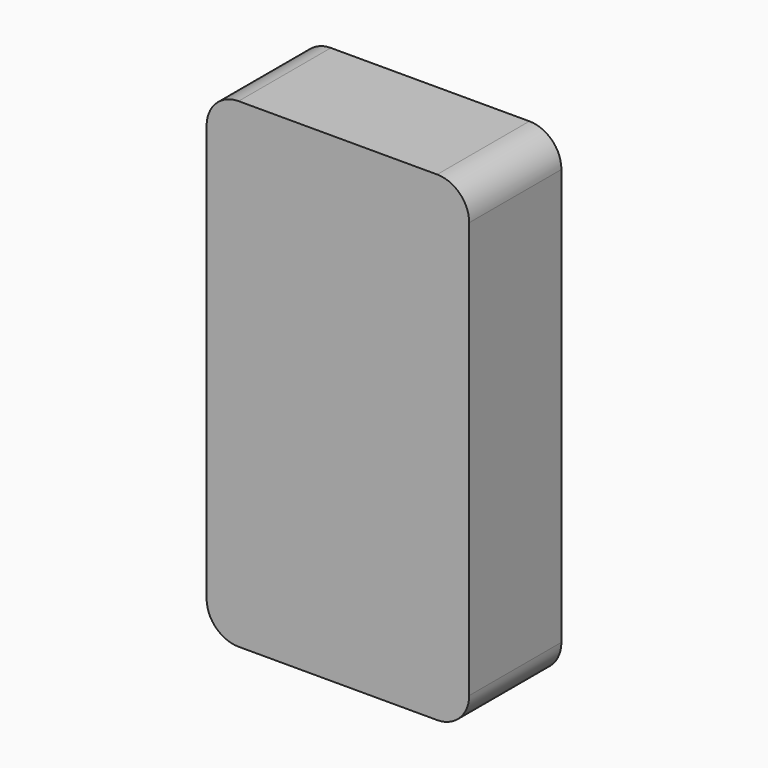
from build123d import *

# Parameters (mm, degrees)
CYLINDER075_R               = 2.8
CYLINDER075_DEPTH           = 10
CYLINDER074_R               = 4.99
CYLINDER074_DEPTH           = 22
CYLINDER074_ROLL_ANGLE      = 90
CYLINDER074_PITCH_ANGLE     = -60
CYLINDER074_PLACEMENT_ANGLE = 180
CYLINDER077_R               = 2.8
CYLINDER077_DEPTH           = 10
CYLINDER076_R               = 4.99
CYLINDER076_DEPTH           = 22
CYLINDER076_ROLL_ANGLE      = 90
CYLINDER076_PITCH_ANGLE     = -60
CYLINDER076_PLACEMENT_ANGLE = 180
CYLINDER079_R               = 2.8
CYLINDER079_DEPTH           = 10
CYLINDER078_R               = 4.99
CYLINDER078_DEPTH           = 22
CYLINDER078_ROLL_ANGLE      = 90
CYLINDER078_PITCH_ANGLE     = -60
CYLINDER078_PLACEMENT_ANGLE = 180
CYLINDER054_R               = 1.6
CYLINDER054_DEPTH           = 12
CYLINDER055_R               = 1.6
CYLINDER055_DEPTH           = 12
CYLINDER056_R               = 1.6
CYLINDER056_DEPTH           = 12
CYLINDER057_R               = 1.6
CYLINDER057_DEPTH           = 12
CYLINDER058_R               = 1.6
CYLINDER058_DEPTH           = 12
CYLINDER059_R               = 1.6
CYLINDER059_DEPTH           = 12
CYLINDER060_R               = 1.6
CYLINDER060_DEPTH           = 12
CYLINDER061_R               = 1.6
CYLINDER061_DEPTH           = 12
CYLINDER062_R               = 3.5
CYLINDER062_DEPTH           = 12
CYLINDER063_R               = 3.5
CYLINDER063_DEPTH           = 12
CYLINDER064_R               = 3.5
CYLINDER064_DEPTH           = 12
CYLINDER065_R               = 3.5
CYLINDER065_DEPTH           = 12
CYLINDER066_R               = 3.5
CYLINDER066_DEPTH           = 12
CYLINDER067_R               = 3.5
CYLINDER067_DEPTH           = 12
CYLINDER068_R               = 3.5
CYLINDER068_DEPTH           = 12
CYLINDER051_R               = 1.57
CYLINDER051_DEPTH           = 6
CYLINDER050_R               = 5.3
CYLINDER050_DEPTH           = 6
CYLINDER052_W               = 5.3
CYLINDER052_H               = 6
CYLINDER052_ANGLE           = 270
CYLINDER053_W               = 5.3
CYLINDER053_H               = 6
CYLINDER053_ANGLE           = 270
CYLINDER045_W               = 10
CYLINDER045_H               = 34
CYLINDER045_ANGLE           = 90
BOX035_W                    = 10
BOX035_H                    = 34
BOX035_DEPTH                = 10
CUT031_PLACEMENT_ANGLE      = 180
CYLINDER046_W               = 10
CYLINDER046_H               = 34
CYLINDER046_ANGLE           = 90
BOX036_W                    = 10
BOX036_H                    = 34
BOX036_DEPTH                = 10
CUT032_PLACEMENT_ANGLE      = 180
CYLINDER047_W               = 10
CYLINDER047_H               = 34
CYLINDER047_ANGLE           = 90
BOX037_W                    = 10
BOX037_H                    = 34
BOX037_DEPTH                = 10
CUT033_PITCH_ANGLE          = -90
CUT033_PLACEMENT_ANGLE      = -180
CYLINDER044_W               = 10
CYLINDER044_H               = 34
CYLINDER044_ANGLE           = 90
BOX033_W                    = 10
BOX033_H                    = 34
BOX033_DEPTH                = 10
CUT030_PITCH_ANGLE          = 90
CUT030_PLACEMENT_ANGLE      = -180
BOX034_W                    = 78
BOX034_H                    = 34
BOX034_DEPTH                = 146
CYLINDER041_W               = 10
CYLINDER041_H               = 36
CYLINDER041_ANGLE           = 90
BOX030_W                    = 10
BOX030_H                    = 36
BOX030_DEPTH                = 10
CUT026_PLACEMENT_ANGLE      = 180
CYLINDER042_W               = 10
CYLINDER042_H               = 36
CYLINDER042_ANGLE           = 90
BOX031_W                    = 10
BOX031_H                    = 36
BOX031_DEPTH                = 10
CUT027_PLACEMENT_ANGLE      = 180
CYLINDER043_W               = 10
CYLINDER043_H               = 36
CYLINDER043_ANGLE           = 90
BOX032_W                    = 10
BOX032_H                    = 36
BOX032_DEPTH                = 10
CUT028_PITCH_ANGLE          = -90
CUT028_PLACEMENT_ANGLE      = -180
CYLINDER040_W               = 10
CYLINDER040_H               = 36
CYLINDER040_ANGLE           = 90
BOX028_W                    = 10
BOX028_H                    = 36
BOX028_DEPTH                = 10
CUT025_PITCH_ANGLE          = 90
CUT025_PLACEMENT_ANGLE      = -180
BOX029_W                    = 82
BOX029_H                    = 36
BOX029_DEPTH                = 150
CUT035_PLACEMENT_ANGLE      = 180
CYLINDER048_R               = 1.57
CYLINDER048_DEPTH           = 6
CYLINDER049_R               = 5.3
CYLINDER049_DEPTH           = 6
CYLINDER069_R               = 3.5
CYLINDER069_DEPTH           = 12
CYLINDER073_R               = 2.8
CYLINDER073_DEPTH           = 10
CYLINDER072_R               = 4.99
CYLINDER072_DEPTH           = 22
CYLINDER072_ROLL_ANGLE      = 90
CYLINDER072_PITCH_ANGLE     = -60
CYLINDER072_PLACEMENT_ANGLE = -180


with BuildPart() as m4heatsetcut001:
    # Cylinder075 → Cylinder075 (new body)
    with BuildSketch(Plane(origin=(4.5, -32, 141.5), x_dir=(1, 0, 0), z_dir=(0, 1, 0))):
        Circle(CYLINDER075_R)
    extrude(amount=CYLINDER075_DEPTH)


with BuildPart() as m4heatsetholes001:
    # Cylinder074 → Cylinder074 (new body)
    with BuildSketch(Plane.XY):
        Circle(CYLINDER074_R)
    extrude(amount=CYLINDER074_DEPTH)


with BuildPart() as m4heatsetholes001_1:
    # Cylinder074 roll: moved
    add(m4heatsetholes001.part.rotate(Axis((0, 0, 0), (1, 0, 0)), CYLINDER074_ROLL_ANGLE))


with BuildPart() as m4heatsetholes001_2:
    # Cylinder074 pitch: moved
    add(m4heatsetholes001_1.part.rotate(Axis((0, 0, 0), (0, 1, 0)), CYLINDER074_PITCH_ANGLE))


with BuildPart() as m4heatsetholes001_3:
    # Cylinder074 placement: moved
    add(m4heatsetholes001_2.part.moved(Location((4.5, -44, 141.5))).rotate(Axis((4.5, -44, 141.5), (0, 0, 1)), CYLINDER074_PLACEMENT_ANGLE))

    # Cut040: cut m4HeatSetCut001
    add(m4heatsetcut001.part, mode=Mode.SUBTRACT)


with BuildPart() as m4heatsetholes001_4:
    # Cut040 placement: moved
    add(m4heatsetholes001_3.part.moved(Location((68, 0, 0))))


with BuildPart() as m4heatsetcut002:
    # Cylinder077 → Cylinder077 (new body)
    with BuildSketch(Plane(origin=(4.5, -32, 141.5), x_dir=(1, 0, 0), z_dir=(0, 1, 0))):
        Circle(CYLINDER077_R)
    extrude(amount=CYLINDER077_DEPTH)


with BuildPart() as m4heatsetholes002:
    # Cylinder076 → Cylinder076 (new body)
    with BuildSketch(Plane.XY):
        Circle(CYLINDER076_R)
    extrude(amount=CYLINDER076_DEPTH)


with BuildPart() as m4heatsetholes002_1:
    # Cylinder076 roll: moved
    add(m4heatsetholes002.part.rotate(Axis((0, 0, 0), (1, 0, 0)), CYLINDER076_ROLL_ANGLE))


with BuildPart() as m4heatsetholes002_2:
    # Cylinder076 pitch: moved
    add(m4heatsetholes002_1.part.rotate(Axis((0, 0, 0), (0, 1, 0)), CYLINDER076_PITCH_ANGLE))


with BuildPart() as m4heatsetholes002_3:
    # Cylinder076 placement: moved
    add(m4heatsetholes002_2.part.moved(Location((4.5, -44, 141.5))).rotate(Axis((4.5, -44, 141.5), (0, 0, 1)), CYLINDER076_PLACEMENT_ANGLE))

    # Cut041: cut m4HeatSetCut002
    add(m4heatsetcut002.part, mode=Mode.SUBTRACT)


with BuildPart() as m4heatsetholes002_4:
    # Cut041 placement: moved
    add(m4heatsetholes002_3.part.moved(Location((0, 0, -136))))


with BuildPart() as m4heatsetcut003:
    # Cylinder079 → Cylinder079 (new body)
    with BuildSketch(Plane(origin=(4.5, -32, 141.5), x_dir=(1, 0, 0), z_dir=(0, 1, 0))):
        Circle(CYLINDER079_R)
    extrude(amount=CYLINDER079_DEPTH)


with BuildPart() as m4heatsetholes003:
    # Cylinder078 → Cylinder078 (new body)
    with BuildSketch(Plane.XY):
        Circle(CYLINDER078_R)
    extrude(amount=CYLINDER078_DEPTH)


with BuildPart() as m4heatsetholes003_1:
    # Cylinder078 roll: moved
    add(m4heatsetholes003.part.rotate(Axis((0, 0, 0), (1, 0, 0)), CYLINDER078_ROLL_ANGLE))


with BuildPart() as m4heatsetholes003_2:
    # Cylinder078 pitch: moved
    add(m4heatsetholes003_1.part.rotate(Axis((0, 0, 0), (0, 1, 0)), CYLINDER078_PITCH_ANGLE))


with BuildPart() as m4heatsetholes003_3:
    # Cylinder078 placement: moved
    add(m4heatsetholes003_2.part.moved(Location((4.5, -44, 141.5))).rotate(Axis((4.5, -44, 141.5), (0, 0, 1)), CYLINDER078_PLACEMENT_ANGLE))

    # Cut042: cut m4HeatSetCut003
    add(m4heatsetcut003.part, mode=Mode.SUBTRACT)


with BuildPart() as m4heatsetholes003_4:
    # Cut042 placement: moved
    add(m4heatsetholes003_3.part.moved(Location((68, 0, -137))))


with BuildPart() as m2heatset001:
    # Cylinder054 → Cylinder054 (new body)
    with BuildSketch(Plane(origin=(8, -44, 67.1), x_dir=(1, 0, 0), z_dir=(0, 1, 0))):
        Circle(CYLINDER054_R)
    extrude(amount=CYLINDER054_DEPTH)


with BuildPart() as m2heatset002:
    # Cylinder055 → Cylinder055 (new body)
    with BuildSketch(Plane(origin=(28, -44, 67.1), x_dir=(1, 0, 0), z_dir=(0, 1, 0))):
        Circle(CYLINDER055_R)
    extrude(amount=CYLINDER055_DEPTH)


with BuildPart() as m2heatset003:
    # Cylinder056 → Cylinder056 (new body)
    with BuildSketch(Plane(origin=(68, -44, 67.1), x_dir=(1, 0, 0), z_dir=(0, 1, 0))):
        Circle(CYLINDER056_R)
    extrude(amount=CYLINDER056_DEPTH)


with BuildPart() as m2heatset004:
    # Cylinder057 → Cylinder057 (new body)
    with BuildSketch(Plane(origin=(18.2, -44, 97), x_dir=(1, 0, 0), z_dir=(0, 1, 0))):
        Circle(CYLINDER057_R)
    extrude(amount=CYLINDER057_DEPTH)


with BuildPart() as m2heatset005:
    # Cylinder058 → Cylinder058 (new body)
    with BuildSketch(Plane(origin=(28, -44, 87), x_dir=(1, 0, 0), z_dir=(0, 1, 0))):
        Circle(CYLINDER058_R)
    extrude(amount=CYLINDER058_DEPTH)


with BuildPart() as m2heatset006:
    # Cylinder059 → Cylinder059 (new body)
    with BuildSketch(Plane(origin=(38, -44, 117), x_dir=(1, 0, 0), z_dir=(0, 1, 0))):
        Circle(CYLINDER059_R)
    extrude(amount=CYLINDER059_DEPTH)


with BuildPart() as m2heatset007:
    # Cylinder060 → Cylinder060 (new body)
    with BuildSketch(Plane(origin=(38, -44, 57), x_dir=(1, 0, 0), z_dir=(0, 1, 0))):
        Circle(CYLINDER060_R)
    extrude(amount=CYLINDER060_DEPTH)


with BuildPart() as m2heatset008:
    # Cylinder061 → Cylinder061 (new body)
    with BuildSketch(Plane(origin=(68, -44, 107), x_dir=(1, 0, 0), z_dir=(0, 1, 0))):
        Circle(CYLINDER061_R)
    extrude(amount=CYLINDER061_DEPTH)


with BuildPart() as m2heatsetcuts:
    # Cylinder062 → Cylinder062 (new body)
    with BuildSketch(Plane(origin=(8, -44, 67.1), x_dir=(1, 0, 0), z_dir=(0, 1, 0))):
        Circle(CYLINDER062_R)
    extrude(amount=CYLINDER062_DEPTH)

    # Fusion021: union m2HeatSet001, m2HeatSet002, m2HeatSet003, m2HeatSet004, m2HeatSet005, m2HeatSet006, m2HeatSet007, m2HeatSet008
    add(m2heatset001.part)
    add(m2heatset002.part)
    add(m2heatset003.part)
    add(m2heatset004.part)
    add(m2heatset005.part)
    add(m2heatset006.part)
    add(m2heatset007.part)
    add(m2heatset008.part)


with BuildPart() as obj1:
    # Cylinder063 → Cylinder063 (new body)
    with BuildSketch(Plane(origin=(28, -44, 67.1), x_dir=(1, 0, 0), z_dir=(0, 1, 0))):
        Circle(CYLINDER063_R)
    extrude(amount=CYLINDER063_DEPTH)


with BuildPart() as obj2:
    # Cylinder064 → Cylinder064 (new body)
    with BuildSketch(Plane(origin=(18.2, -44, 97), x_dir=(1, 0, 0), z_dir=(0, 1, 0))):
        Circle(CYLINDER064_R)
    extrude(amount=CYLINDER064_DEPTH)


with BuildPart() as obj3:
    # Cylinder065 → Cylinder065 (new body)
    with BuildSketch(Plane(origin=(68, -44, 67.1), x_dir=(1, 0, 0), z_dir=(0, 1, 0))):
        Circle(CYLINDER065_R)
    extrude(amount=CYLINDER065_DEPTH)


with BuildPart() as obj4:
    # Cylinder066 → Cylinder066 (new body)
    with BuildSketch(Plane(origin=(28, -44, 87), x_dir=(1, 0, 0), z_dir=(0, 1, 0))):
        Circle(CYLINDER066_R)
    extrude(amount=CYLINDER066_DEPTH)


with BuildPart() as obj5:
    # Cylinder067 → Cylinder067 (new body)
    with BuildSketch(Plane(origin=(38, -44, 57), x_dir=(1, 0, 0), z_dir=(0, 1, 0))):
        Circle(CYLINDER067_R)
    extrude(amount=CYLINDER067_DEPTH)


with BuildPart() as obj6:
    # Cylinder068 → Cylinder068 (new body)
    with BuildSketch(Plane(origin=(68, -44, 107), x_dir=(1, 0, 0), z_dir=(0, 1, 0))):
        Circle(CYLINDER068_R)
    extrude(amount=CYLINDER068_DEPTH)


with BuildPart() as cylinder051:
    # Cylinder051 → Cylinder051 (new body)
    with BuildSketch(Plane(origin=(59.6, -44, 48.15), x_dir=(1, 0, 0), z_dir=(0, 1, 0))):
        Circle(CYLINDER051_R)
    extrude(amount=CYLINDER051_DEPTH)


with BuildPart() as cut037:
    # Cylinder050 → Cylinder050 (new body)
    with BuildSketch(Plane(origin=(62.1, -44, 50.65), x_dir=(0, 0, -1), z_dir=(0, 1, 0))):
        Circle(CYLINDER050_R)
    extrude(amount=CYLINDER050_DEPTH)

    # Cut037: cut Cylinder051
    add(cylinder051.part, mode=Mode.SUBTRACT)


with BuildPart() as cylinder052:
    # Cylinder052 → Cylinder052 (revolve)
    with BuildSketch(Plane(origin=(15, -38, 7.55), x_dir=(1, 0, 0), z_dir=(0, 0, 1))):
        with Locations((2.65, 3)):
            Rectangle(CYLINDER052_W, CYLINDER052_H)
    revolve(axis=Axis((15, -38, 7.55), (0, 1, 0)), revolution_arc=CYLINDER052_ANGLE)


with BuildPart() as cylinder053:
    # Cylinder053 → Cylinder053 (revolve)
    with BuildSketch(Plane(origin=(62.1, -38, 50.65), x_dir=(-1, 0, 0), z_dir=(0, 0, -1))):
        with Locations((2.65, 3)):
            Rectangle(CYLINDER053_W, CYLINDER053_H)
    revolve(axis=Axis((62.1, -38, 50.65), (0, 1, 0)), revolution_arc=CYLINDER053_ANGLE)


with BuildPart() as cylinder045:
    # Cylinder045 → Cylinder045 (revolve)
    with BuildSketch(Plane(origin=(0, 26, 0), x_dir=(1, 0, 0), z_dir=(0, 0, -1))):
        with Locations((5, 17)):
            Rectangle(CYLINDER045_W, CYLINDER045_H)
    revolve(axis=Axis((0, 26, 0), (0, -1, 0)), revolution_arc=CYLINDER045_ANGLE)


with BuildPart() as cut031:
    # Box035 → Box035 (new body)
    with BuildSketch(Plane(origin=(0, -8, 0), x_dir=(1, 0, 0), z_dir=(0, 0, 1))):
        with Locations((5, 17)):
            Rectangle(BOX035_W, BOX035_H)
    extrude(amount=BOX035_DEPTH)

    # Cut031: cut Cylinder045
    add(cylinder045.part, mode=Mode.SUBTRACT)


with BuildPart() as cut031_1:
    # Cut031 placement: moved
    add(cut031.part.moved(Location((70, 18, 8))).rotate(Axis((70, 18, 8), (1, 0, 0)), CUT031_PLACEMENT_ANGLE))


with BuildPart() as cylinder046:
    # Cylinder046 → Cylinder046 (revolve)
    with BuildSketch(Plane(origin=(0, 26, 0), x_dir=(1, 0, 0), z_dir=(0, 0, -1))):
        with Locations((5, 17)):
            Rectangle(CYLINDER046_W, CYLINDER046_H)
    revolve(axis=Axis((0, 26, 0), (0, -1, 0)), revolution_arc=CYLINDER046_ANGLE)


with BuildPart() as cut032:
    # Box036 → Box036 (new body)
    with BuildSketch(Plane(origin=(0, -8, 0), x_dir=(1, 0, 0), z_dir=(0, 0, 1))):
        with Locations((5, 17)):
            Rectangle(BOX036_W, BOX036_H)
    extrude(amount=BOX036_DEPTH)

    # Cut032: cut Cylinder046
    add(cylinder046.part, mode=Mode.SUBTRACT)


with BuildPart() as cut032_1:
    # Cut032 placement: moved
    add(cut032.part.moved(Location((12, 18, 134))).rotate(Axis((12, 18, 134), (0, 0, 1)), CUT032_PLACEMENT_ANGLE))


with BuildPart() as cylinder047:
    # Cylinder047 → Cylinder047 (revolve)
    with BuildSketch(Plane(origin=(0, 26, 0), x_dir=(1, 0, 0), z_dir=(0, 0, -1))):
        with Locations((5, 17)):
            Rectangle(CYLINDER047_W, CYLINDER047_H)
    revolve(axis=Axis((0, 26, 0), (0, -1, 0)), revolution_arc=CYLINDER047_ANGLE)


with BuildPart() as cut033:
    # Box037 → Box037 (new body)
    with BuildSketch(Plane(origin=(0, -8, 0), x_dir=(1, 0, 0), z_dir=(0, 0, 1))):
        with Locations((5, 17)):
            Rectangle(BOX037_W, BOX037_H)
    extrude(amount=BOX037_DEPTH)

    # Cut033: cut Cylinder047
    add(cylinder047.part, mode=Mode.SUBTRACT)


with BuildPart() as cut033_1:
    # Cut033 pitch: moved
    add(cut033.part.rotate(Axis((0, 0, 0), (0, 1, 0)), CUT033_PITCH_ANGLE))


with BuildPart() as cut033_2:
    # Cut033 placement: moved
    add(cut033_1.part.moved(Location((70, 18, 135))).rotate(Axis((70, 18, 135), (0, 0, 1)), CUT033_PLACEMENT_ANGLE))


with BuildPart() as cylinder044:
    # Cylinder044 → Cylinder044 (revolve)
    with BuildSketch(Plane(origin=(0, 26, 0), x_dir=(1, 0, 0), z_dir=(0, 0, -1))):
        with Locations((5, 17)):
            Rectangle(CYLINDER044_W, CYLINDER044_H)
    revolve(axis=Axis((0, 26, 0), (0, -1, 0)), revolution_arc=CYLINDER044_ANGLE)


with BuildPart() as fusion018:
    # Box033 → Box033 (new body)
    with BuildSketch(Plane(origin=(0, -8, 0), x_dir=(1, 0, 0), z_dir=(0, 0, 1))):
        with Locations((5, 17)):
            Rectangle(BOX033_W, BOX033_H)
    extrude(amount=BOX033_DEPTH)

    # Cut030: cut Cylinder044
    add(cylinder044.part, mode=Mode.SUBTRACT)


with BuildPart() as fusion018_1:
    # Cut030 pitch: moved
    add(fusion018.part.rotate(Axis((0, 0, 0), (0, 1, 0)), CUT030_PITCH_ANGLE))


with BuildPart() as fusion018_2:
    # Cut030 placement: moved
    add(fusion018_1.part.moved(Location((12, 18, 8))).rotate(Axis((12, 18, 8), (0, 0, 1)), CUT030_PLACEMENT_ANGLE))

    # Fusion018: union Cut031, Cut032, Cut033
    add(cut031_1.part)
    add(cut032_1.part)
    add(cut033_2.part)


with BuildPart() as obj7:
    # Box034 → Box034 (new body)
    with BuildSketch(Plane(origin=(80, 26, -2), x_dir=(-1, 0, 0), z_dir=(0, 0, 1))):
        with Locations((39, 17)):
            Rectangle(BOX034_W, BOX034_H)
    extrude(amount=BOX034_DEPTH)

    # Cut034: cut Fusion018
    add(fusion018_2.part, mode=Mode.SUBTRACT)


with BuildPart() as obj7_1:
    # Cut034 placement: moved
    add(obj7.part.moved(Location((-2, -2, 2))))


with BuildPart() as cylinder041:
    # Cylinder041 → Cylinder041 (revolve)
    with BuildSketch(Plane(origin=(0, 26, 0), x_dir=(1, 0, 0), z_dir=(0, 0, -1))):
        with Locations((5, 18)):
            Rectangle(CYLINDER041_W, CYLINDER041_H)
    revolve(axis=Axis((0, 26, 0), (0, -1, 0)), revolution_arc=CYLINDER041_ANGLE)


with BuildPart() as cut026:
    # Box030 → Box030 (new body)
    with BuildSketch(Plane(origin=(0, -10, 0), x_dir=(1, 0, 0), z_dir=(0, 0, 1))):
        with Locations((5, 18)):
            Rectangle(BOX030_W, BOX030_H)
    extrude(amount=BOX030_DEPTH)

    # Cut026: cut Cylinder041
    add(cylinder041.part, mode=Mode.SUBTRACT)


with BuildPart() as cut026_1:
    # Cut026 placement: moved
    add(cut026.part.moved(Location((70, 18, 8))).rotate(Axis((70, 18, 8), (1, 0, 0)), CUT026_PLACEMENT_ANGLE))


with BuildPart() as cylinder042:
    # Cylinder042 → Cylinder042 (revolve)
    with BuildSketch(Plane(origin=(0, 26, 0), x_dir=(1, 0, 0), z_dir=(0, 0, -1))):
        with Locations((5, 18)):
            Rectangle(CYLINDER042_W, CYLINDER042_H)
    revolve(axis=Axis((0, 26, 0), (0, -1, 0)), revolution_arc=CYLINDER042_ANGLE)


with BuildPart() as cut027:
    # Box031 → Box031 (new body)
    with BuildSketch(Plane(origin=(0, -10, 0), x_dir=(1, 0, 0), z_dir=(0, 0, 1))):
        with Locations((5, 18)):
            Rectangle(BOX031_W, BOX031_H)
    extrude(amount=BOX031_DEPTH)

    # Cut027: cut Cylinder042
    add(cylinder042.part, mode=Mode.SUBTRACT)


with BuildPart() as cut027_1:
    # Cut027 placement: moved
    add(cut027.part.moved(Location((8, 18, 138))).rotate(Axis((8, 18, 138), (0, 0, 1)), CUT027_PLACEMENT_ANGLE))


with BuildPart() as cylinder043:
    # Cylinder043 → Cylinder043 (revolve)
    with BuildSketch(Plane(origin=(0, 26, 0), x_dir=(1, 0, 0), z_dir=(0, 0, -1))):
        with Locations((5, 18)):
            Rectangle(CYLINDER043_W, CYLINDER043_H)
    revolve(axis=Axis((0, 26, 0), (0, -1, 0)), revolution_arc=CYLINDER043_ANGLE)


with BuildPart() as cut028:
    # Box032 → Box032 (new body)
    with BuildSketch(Plane(origin=(0, -10, 0), x_dir=(1, 0, 0), z_dir=(0, 0, 1))):
        with Locations((5, 18)):
            Rectangle(BOX032_W, BOX032_H)
    extrude(amount=BOX032_DEPTH)

    # Cut028: cut Cylinder043
    add(cylinder043.part, mode=Mode.SUBTRACT)


with BuildPart() as cut028_1:
    # Cut028 pitch: moved
    add(cut028.part.rotate(Axis((0, 0, 0), (0, 1, 0)), CUT028_PITCH_ANGLE))


with BuildPart() as cut028_2:
    # Cut028 placement: moved
    add(cut028_1.part.moved(Location((70, 18, 138))).rotate(Axis((70, 18, 138), (0, 0, 1)), CUT028_PLACEMENT_ANGLE))


with BuildPart() as cylinder040:
    # Cylinder040 → Cylinder040 (revolve)
    with BuildSketch(Plane(origin=(0, 26, 0), x_dir=(1, 0, 0), z_dir=(0, 0, -1))):
        with Locations((5, 18)):
            Rectangle(CYLINDER040_W, CYLINDER040_H)
    revolve(axis=Axis((0, 26, 0), (0, -1, 0)), revolution_arc=CYLINDER040_ANGLE)


with BuildPart() as fusion017:
    # Box028 → Box028 (new body)
    with BuildSketch(Plane(origin=(0, -10, 0), x_dir=(1, 0, 0), z_dir=(0, 0, 1))):
        with Locations((5, 18)):
            Rectangle(BOX028_W, BOX028_H)
    extrude(amount=BOX028_DEPTH)

    # Cut025: cut Cylinder040
    add(cylinder040.part, mode=Mode.SUBTRACT)


with BuildPart() as fusion017_1:
    # Cut025 pitch: moved
    add(fusion017.part.rotate(Axis((0, 0, 0), (0, 1, 0)), CUT025_PITCH_ANGLE))


with BuildPart() as fusion017_2:
    # Cut025 placement: moved
    add(fusion017_1.part.moved(Location((8, 18, 8))).rotate(Axis((8, 18, 8), (0, 0, 1)), CUT025_PLACEMENT_ANGLE))

    # Fusion017: union Cut026, Cut027, Cut028
    add(cut026_1.part)
    add(cut027_1.part)
    add(cut028_2.part)


with BuildPart() as fusion017_3:
    # Fusion017 placement: moved
    add(fusion017_2.part.moved(Location((0, -2, 0))))


with BuildPart() as basetop:
    # Box029 → Box029 (new body)
    with BuildSketch(Plane(origin=(80, 26, -2), x_dir=(-1, 0, 0), z_dir=(0, 0, 1))):
        with Locations((41, 18)):
            Rectangle(BOX029_W, BOX029_H)
    extrude(amount=BOX029_DEPTH)

    # Cut029: cut Fusion017
    add(fusion017_3.part, mode=Mode.SUBTRACT)

    # Cut035: cut obj7
    add(obj7_1.part, mode=Mode.SUBTRACT)


with BuildPart() as basetop_1:
    # Cut035 placement: moved
    add(basetop.part.moved(Location((78, -20, 0))).rotate(Axis((78, -20, 0), (0, 0, 1)), CUT035_PLACEMENT_ANGLE))


with BuildPart() as cylinder048:
    # Cylinder048 → Cylinder048 (new body)
    with BuildSketch(Plane(origin=(17.5, -44, 10.05), x_dir=(1, 0, 0), z_dir=(0, 1, 0))):
        Circle(CYLINDER048_R)
    extrude(amount=CYLINDER048_DEPTH)


with BuildPart() as basetop001:
    # Cylinder049 → Cylinder049 (new body)
    with BuildSketch(Plane(origin=(15, -44, 7.55), x_dir=(0, 0, 1), z_dir=(0, 1, 0))):
        Circle(CYLINDER049_R)
    extrude(amount=CYLINDER049_DEPTH)

    # Cut036: cut Cylinder048
    add(cylinder048.part, mode=Mode.SUBTRACT)

    # Fusion019: union Cut037, Cylinder052, Cylinder053, baseTop
    add(cut037.part)
    add(cylinder052.part)
    add(cylinder053.part)
    add(basetop_1.part)


with BuildPart() as basetop003:
    # Cylinder069 → Cylinder069 (new body)
    with BuildSketch(Plane(origin=(38, -44, 117), x_dir=(1, 0, 0), z_dir=(0, 1, 0))):
        Circle(CYLINDER069_R)
    extrude(amount=CYLINDER069_DEPTH)

    # Fusion020: union obj1, obj2, obj3, obj4, obj5, obj6, baseTop001
    add(obj1.part)
    add(obj2.part)
    add(obj3.part)
    add(obj4.part)
    add(obj5.part)
    add(obj6.part)
    add(basetop001.part)

    # Cut038: cut m2HeatSetCuts
    add(m2heatsetcuts.part, mode=Mode.SUBTRACT)


with BuildPart() as m4heatsetcut:
    # Cylinder073 → Cylinder073 (new body)
    with BuildSketch(Plane(origin=(4.5, -32, 141.5), x_dir=(1, 0, 0), z_dir=(0, 1, 0))):
        Circle(CYLINDER073_R)
    extrude(amount=CYLINDER073_DEPTH)


with BuildPart() as basetop004:
    # Cylinder072 → Cylinder072 (new body)
    with BuildSketch(Plane.XY):
        Circle(CYLINDER072_R)
    extrude(amount=CYLINDER072_DEPTH)


with BuildPart() as basetop004_1:
    # Cylinder072 roll: moved
    add(basetop004.part.rotate(Axis((0, 0, 0), (1, 0, 0)), CYLINDER072_ROLL_ANGLE))


with BuildPart() as basetop004_2:
    # Cylinder072 pitch: moved
    add(basetop004_1.part.rotate(Axis((0, 0, 0), (0, 1, 0)), CYLINDER072_PITCH_ANGLE))


with BuildPart() as basetop004_3:
    # Cylinder072 placement: moved
    add(basetop004_2.part.moved(Location((4.5, -44, 141.5))).rotate(Axis((4.5, -44, 141.5), (0, 0, 1)), CYLINDER072_PLACEMENT_ANGLE))

    # Cut039: cut m4HeatSetCut
    add(m4heatsetcut.part, mode=Mode.SUBTRACT)

    # Fusion023: union m4HeatSetHoles001, m4HeatSetHoles002, m4HeatSetHoles003, baseTop003
    add(m4heatsetholes001_4.part)
    add(m4heatsetholes002_4.part)
    add(m4heatsetholes003_4.part)
    add(basetop003.part)


solid = basetop004_3.part
